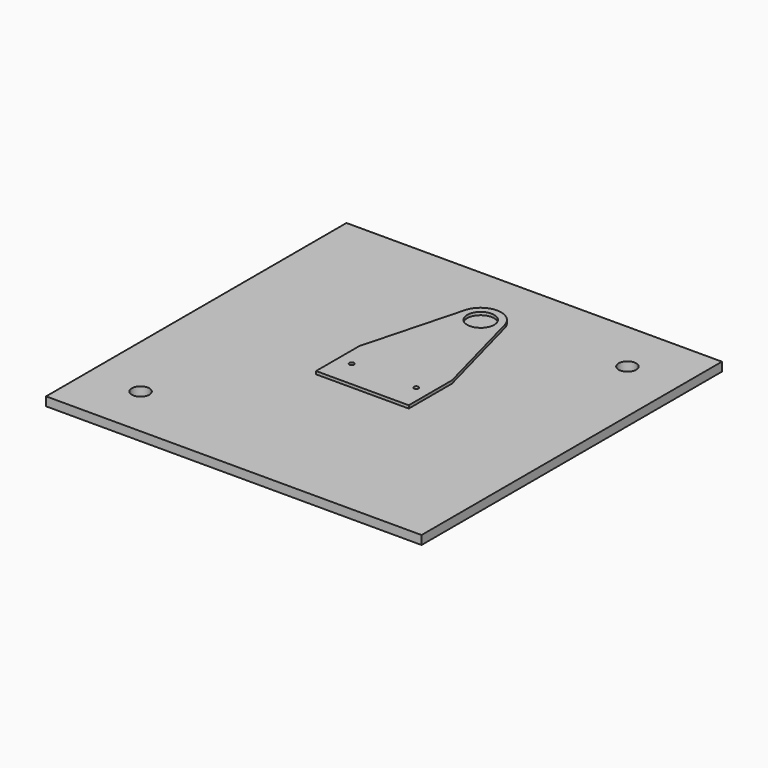
from build123d import *

# Parameters (mm, degrees)
F0_W     = 50.165
F0_H     = 29.21
F0_R     = 1.27
F0_R_2   = 7.3025
F1_DEPTH = 6.35
F2_W     = 203.2
F2_H     = 203.2
F2_R     = 4.7625
F3_DEPTH = 4.7625


with BuildPart() as f1:
    # F0 (on Top) → F1 (new body)
    with BuildSketch(Plane.XY):
        Rectangle(F0_W, F0_H)
        with Locations((-17.4625, 0)):
            Circle(F0_R, mode=Mode.SUBTRACT)
        with Locations((17.4625, 0)):
            Circle(F0_R, mode=Mode.SUBTRACT)
        with BuildLine():
            Line((-25.0825, 14.605), (25.0825, 14.605))
            Line((25.0825, 14.605), (10.73554, 68.274814))
            ThreePointArc((10.73554, 68.274814), (11.017857, 66.852233), (11.1125, 65.405))
            ThreePointArc((11.1125, 65.405), (-1.447233, 54.387143), (-10.73554, 68.274814))
            Line((-10.73554, 68.274814), (-25.0825, 14.605))
        make_face()
        with BuildLine():
            ThreePointArc((11.1125, 65.405), (11.017857, 66.852233), (10.73554, 68.274814))
            ThreePointArc((10.73554, 68.274814), (0, 76.5175), (-10.73554, 68.274814))
            ThreePointArc((-10.73554, 68.274814), (-1.447233, 54.387143), (11.1125, 65.405))
        make_face()
        with Locations((0, 65.405)):
            Circle(F0_R_2, mode=Mode.SUBTRACT)
    extrude(amount=F1_DEPTH)


with BuildPart() as f3:
    # F2 (on Top) → F3 (new body)
    with BuildSketch(Plane.XY):
        Rectangle(F2_W, F2_H)
        with Locations((-73.189087, -73.189087)):
            Circle(F2_R, mode=Mode.SUBTRACT)
        with Locations((73.189087, 73.189087)):
            Circle(F2_R, mode=Mode.SUBTRACT)
    extrude(amount=F3_DEPTH)


solid = Compound([f1.part, f3.part])
